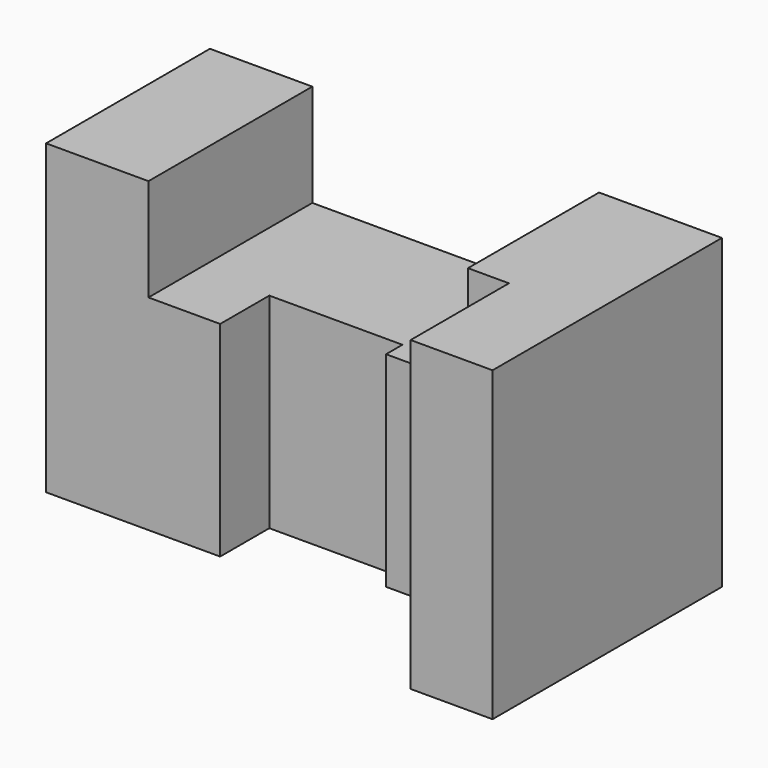
from build123d import *

# Parameters (mm, degrees)
F1_DEPTH = 50
F3_DEPTH = 50.001
F4_W     = 30
F4_H     = 20
F5_DEPTH = 75
F6_W     = 10
F6_H     = 30
F7_DEPTH = 75.001


with BuildPart() as f1:
    # F0 (on Front) → F1 (new body)
    with BuildSketch(Plane.XZ):
        Polygon((0, 75), (0, 0), (125, 0), (125, 75), (95, 75), (95, 50), (25, 50), (25, 75), align=None)
    extrude(amount=F1_DEPTH)

    # F2 (on face) → F3 (cut, through all)
    with BuildSketch(Plane.XY.offset(50)):
        Polygon((95, -50), (95, -40), (75, -40), (75, -35), (42.5, -35), (42.5, -50), align=None)
    extrude(amount=-F3_DEPTH, mode=Mode.SUBTRACT)

    # F4 (on face) → F5 (join)
    with BuildSketch(Plane.XY.offset(75)):
        with Locations((110, -60)):
            Rectangle(F4_W, F4_H)
    extrude(amount=-F5_DEPTH)

    # F6 (on face) → F7 (cut, through all)
    with BuildSketch(Plane.XY.offset(75)):
        with Locations((100, -55)):
            Rectangle(F6_W, F6_H)
    extrude(amount=-F7_DEPTH, mode=Mode.SUBTRACT)


solid = f1.part
